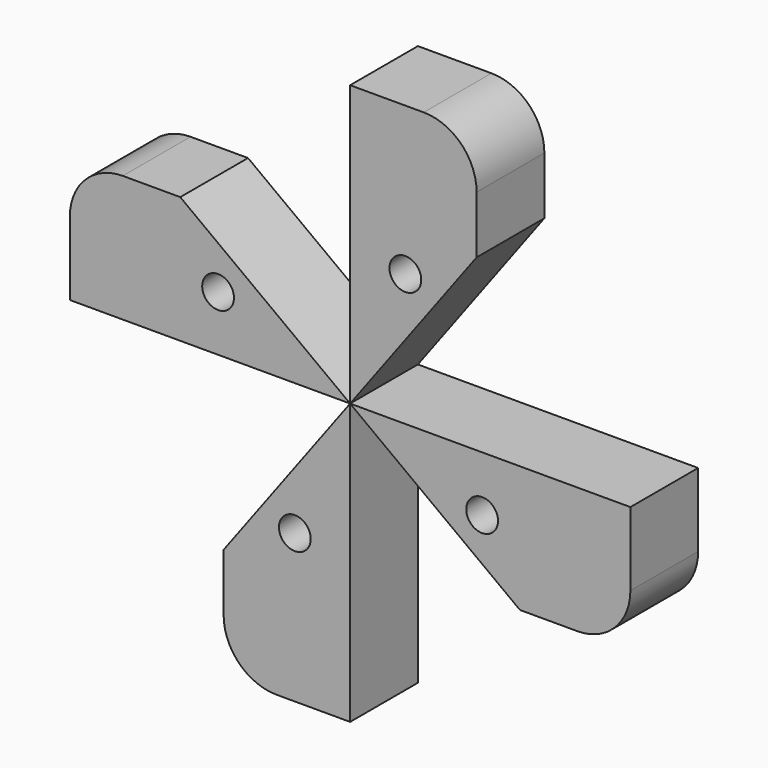
from build123d import *

# Parameters (mm, degrees)
F0_R     = 7.5
F1_DEPTH = 20
F2_COUNT = 4


with BuildPart() as f1:
    # F0 (on Front) → F1 (new body, symmetric)
    with BuildSketch(Plane.XZ):
        Polygon((-80.2, 0), (0, 0), (-80.2, 59.732403), align=None)
        with Locations((-62.343754, 26.093751)):
            Circle(F0_R, mode=Mode.SUBTRACT)
        with BuildLine():
            Line((-80.2, 0), (-80.2, 59.732403))
            Line((-80.2, 59.732403), (-107.34, 59.732403))
            ThreePointArc((-107.34, 59.732403), (-125.01767, 52.410073), (-132.34, 34.732403))
            Line((-132.34, 34.732403), (-132.34, 0))
            Line((-132.34, 0), (-80.2, 0))
        make_face()
    extrude(amount=F1_DEPTH, both=True)


with BuildPart() as f2_1:
    # F2: instance of F1
    add(f1.part.rotate(Axis((0, 0, 0), (0, -1, 0)), 1 * 360 / F2_COUNT))


with BuildPart() as f2_2:
    # F2: instance of F1
    add(f1.part.rotate(Axis((0, 0, 0), (0, -1, 0)), 2 * 360 / F2_COUNT))


with BuildPart() as f2_3:
    # F2: instance of F1
    add(f1.part.rotate(Axis((0, 0, 0), (0, -1, 0)), 3 * 360 / F2_COUNT))


solid = Compound([f1.part, f2_1.part, f2_2.part, f2_3.part])
